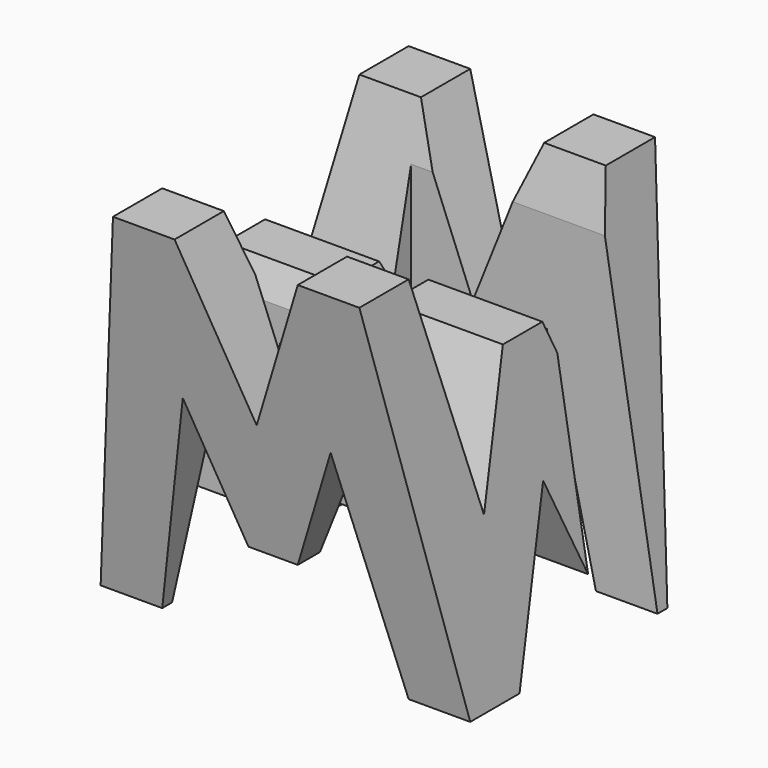
from build123d import *

# Parameters (mm, degrees)
F0_W      = 38.1
F0_H      = 38.1
F1_DEPTH  = 38.1
F6_DEPTH  = 38.1
F8_DEPTH  = 38.1
F9_W      = 25.4
F9_H      = 7.62
F10_DEPTH = 38.1


with BuildPart() as f1:
    # F0 (on Front) → F1 (new body)
    with BuildSketch(Plane.XZ):
        with Locations((19.05, 19.05)):
            Rectangle(F0_W, F0_H)
    extrude(amount=F1_DEPTH)

    # F5 (on offset) → F6 (cut)
    with BuildSketch(Plane.YZ.offset(38.1)):
        Polygon((-6.35, 38.1), (-31.75, 38.1), (-26.67, 15.875), (-21.59, 28.575), (-16.51, 28.575), (-11.43, 15.875), align=None)
        Polygon((-31.75, 0), (-38.1, 38.1), (-38.1, 0), align=None)
        Polygon((-19.05, 15.875), (-25.4, 0), (-12.7, 0), align=None)
        Polygon((0, 0), (0, 38.1), (-6.35, 0), align=None)
    extrude(amount=-F6_DEPTH, mode=Mode.SUBTRACT)

    # F7 (on offset) → F8 (cut)
    with BuildSketch(Plane.XZ.offset(38.1)):
        Polygon((6.35, 38.1), (0, 38.1), (0, 0), align=None)
        Polygon((25.4, 38.1), (12.7, 38.1), (19.05, 22.225), align=None)
        Polygon((38.1, 38.1), (31.75, 38.1), (38.1, 0), align=None)
        Polygon((11.43, 22.225), (6.35, 0), (31.75, 0), (26.67, 22.225), (21.59, 9.525), (16.51, 9.525), align=None)
    extrude(amount=-F8_DEPTH, mode=Mode.SUBTRACT)

    # F9 (on offset) → F10 (cut)
    with BuildSketch(Plane.XY.offset(38.1)):
        with Locations((25.4, -11.43)):
            Rectangle(F9_W, F9_H)
        with Locations((12.7, -26.67)):
            Rectangle(F9_W, F9_H)
    extrude(amount=-F10_DEPTH, mode=Mode.SUBTRACT)


solid = f1.part
